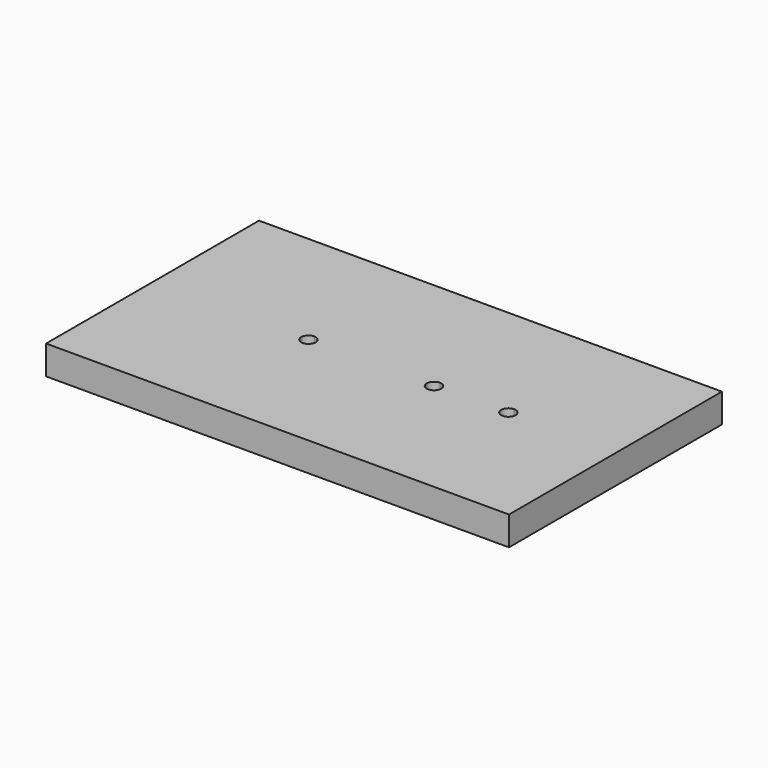
from build123d import *

# Parameters (mm, degrees)
F1_DEPTH = 6.35


with BuildPart() as f1:
    # F0 (on Top) → F1 (new body)
    with BuildSketch(Plane.XY):
        with BuildLine():
            ThreePointArc((22.624004341, 3.8826317272), (17.466782913, 1.685005569), (15.4797674162, -3.5569657209))
            Line((15.4797674162, -3.5569657209), (21.0631239876, -3.5569657209))
            ThreePointArc((21.0631239876, -3.5569657209), (21.4034033724, -2.2524364873), (22.624004341, -1.6799682728))
            Line((22.624004341, -1.6799682728), (22.624004341, 3.8826317272))
        make_face()
        with BuildLine():
            ThreePointArc((-40.0691179239, -3.5569657209), (-21.0191179239, -22.6069657209), (-1.9691179239, -3.5569657209))
            Line((-1.9691179239, -3.5569657209), (-19.4316179239, -3.5569657209))
            ThreePointArc((-19.4316179239, -3.5569657209), (-21.0191179239, -5.1444657209), (-22.6066179239, -3.5569657209))
            Line((-22.6066179239, -3.5569657209), (-40.0691179239, -3.5569657209))
        make_face()
        with BuildLine():
            ThreePointArc((15.0308820761, -3.5569657209), (6.5308820761, -12.0569657209), (-1.9691179239, -3.5569657209))
            ThreePointArc((-1.9691179239, -3.5569657209), (-21.0191179239, -22.6069657209), (-40.0691179239, -3.5569657209))
            Line((-40.0691179239, -3.5569657209), (-55.2431867614, -3.5569657209))
            Line((-55.2431867614, -3.5569657209), (-55.2431867614, -32.7669657209))
            Line((-55.2431867614, -32.7669657209), (46.3568132386, -32.7669657209))
            Line((46.3568132386, -32.7669657209), (46.3568132386, -3.5569657209))
            Line((46.3568132386, -3.5569657209), (29.7682412658, -3.5569657209))
            ThreePointArc((29.7682412658, -3.5569657209), (22.624004341, -10.4175682728), (15.4797674162, -3.5569657209))
            Line((15.4797674162, -3.5569657209), (15.0308820761, -3.5569657209))
        make_face()
        with BuildLine():
            ThreePointArc((22.624004341, 3.8826317272), (17.466782913, 1.685005569), (15.4797674162, -3.5569657209))
            Line((15.4797674162, -3.5569657209), (21.0631239876, -3.5569657209))
            ThreePointArc((21.0631239876, -3.5569657209), (21.4034033724, -2.2524364873), (22.624004341, -1.6799682728))
            Line((22.624004341, -1.6799682728), (22.624004341, 3.8826317272))
        make_face()
        with BuildLine():
            Line((8.1183820761, -3.5569657209), (15.0308820761, -3.5569657209))
            ThreePointArc((15.0308820761, -3.5569657209), (12.5412897162, 2.4534419192), (6.5308820761, 4.9430342791))
            Line((6.5308820761, 4.9430342791), (6.5308820761, -1.9694657209))
            ThreePointArc((6.5308820761, -1.9694657209), (7.6534140913, -2.4344337058), (8.1183820761, -3.5569657209))
        make_face()
        with BuildLine():
            ThreePointArc((29.774104341, -3.2674682728), (27.6798885371, 1.7884159234), (22.624004341, 3.8826317272))
            Line((22.624004341, 3.8826317272), (22.624004341, -1.6799682728))
            ThreePointArc((22.624004341, -1.6799682728), (23.7465363561, -2.1449362576), (24.211504341, -3.2674682728))
            ThreePointArc((24.211504341, -3.2674682728), (24.2048354216, -3.4128276361), (24.1848846943, -3.5569657209))
            Line((24.1848846943, -3.5569657209), (29.7682412658, -3.5569657209))
            ThreePointArc((29.7682412658, -3.5569657209), (29.7726384219, -3.4122466794), (29.774104341, -3.2674682728))
        make_face()
        with BuildLine():
            Line((-21.0191179239, -1.9694657209), (-21.0191179239, 15.4930342791))
            ThreePointArc((-21.0191179239, 15.4930342791), (-34.4895021055, 9.9134184607), (-40.0691179239, -3.5569657209))
            Line((-40.0691179239, -3.5569657209), (-22.6066179239, -3.5569657209))
            ThreePointArc((-22.6066179239, -3.5569657209), (-22.141649939, -2.4344337058), (-21.0191179239, -1.9694657209))
        make_face()
        with BuildLine():
            Line((4.9433820761, -3.5569657209), (-1.9691179239, -3.5569657209))
            ThreePointArc((-1.9691179239, -3.5569657209), (6.5308820761, -12.0569657209), (15.0308820761, -3.5569657209))
            Line((15.0308820761, -3.5569657209), (8.1183820761, -3.5569657209))
            ThreePointArc((8.1183820761, -3.5569657209), (6.5308820761, -5.1444657209), (4.9433820761, -3.5569657209))
        make_face()
        with BuildLine():
            ThreePointArc((-40.0691179239, -3.5569657209), (-34.4895021055, 9.9134184607), (-21.0191179239, 15.4930342791))
            Line((-21.0191179239, 15.4930342791), (-21.0191179239, 25.6530342791))
            Line((-21.0191179239, 25.6530342791), (-55.2431867614, 25.6530342791))
            Line((-55.2431867614, 25.6530342791), (-55.2431867614, -3.5569657209))
            Line((-55.2431867614, -3.5569657209), (-40.0691179239, -3.5569657209))
        make_face()
        with BuildLine():
            Line((22.624004341, 25.6530342791), (22.624004341, 3.8826317272))
            ThreePointArc((22.624004341, 3.8826317272), (27.6798885371, 1.7884159234), (29.774104341, -3.2674682728))
            ThreePointArc((29.774104341, -3.2674682728), (29.7726384219, -3.4122466794), (29.7682412658, -3.5569657209))
            Line((29.7682412658, -3.5569657209), (46.3568132386, -3.5569657209))
            Line((46.3568132386, -3.5569657209), (46.3568132386, 25.6530342791))
            Line((46.3568132386, 25.6530342791), (22.624004341, 25.6530342791))
        make_face()
        with BuildLine():
            ThreePointArc((-21.0191179239, 15.4930342791), (-7.5487337423, 9.9134184607), (-1.9691179239, -3.5569657209))
            ThreePointArc((-1.9691179239, -3.5569657209), (0.520474436, 2.4534419192), (6.5308820761, 4.9430342791))
            Line((6.5308820761, 4.9430342791), (6.5308820761, 25.6530342791))
            Line((6.5308820761, 25.6530342791), (-21.0191179239, 25.6530342791))
            Line((-21.0191179239, 25.6530342791), (-21.0191179239, 15.4930342791))
        make_face()
        with BuildLine():
            Line((-19.4316179239, -3.5569657209), (-1.9691179239, -3.5569657209))
            ThreePointArc((-1.9691179239, -3.5569657209), (-7.5487337423, 9.9134184607), (-21.0191179239, 15.4930342791))
            Line((-21.0191179239, 15.4930342791), (-21.0191179239, -1.9694657209))
            ThreePointArc((-21.0191179239, -1.9694657209), (-19.8965859087, -2.4344337058), (-19.4316179239, -3.5569657209))
        make_face()
        with BuildLine():
            ThreePointArc((6.5308820761, 4.9430342791), (12.5412897162, 2.4534419192), (15.0308820761, -3.5569657209))
            Line((15.0308820761, -3.5569657209), (15.4797674162, -3.5569657209))
            ThreePointArc((15.4797674162, -3.5569657209), (17.466782913, 1.685005569), (22.624004341, 3.8826317272))
            Line((22.624004341, 3.8826317272), (22.624004341, 25.6530342791))
            Line((22.624004341, 25.6530342791), (6.5308820761, 25.6530342791))
            Line((6.5308820761, 25.6530342791), (6.5308820761, 4.9430342791))
        make_face()
        with BuildLine():
            ThreePointArc((6.5308820761, 4.9430342791), (0.520474436, 2.4534419192), (-1.9691179239, -3.5569657209))
            Line((-1.9691179239, -3.5569657209), (4.9433820761, -3.5569657209))
            ThreePointArc((4.9433820761, -3.5569657209), (5.408350061, -2.4344337058), (6.5308820761, -1.9694657209))
            Line((6.5308820761, -1.9694657209), (6.5308820761, 4.9430342791))
        make_face()
        with BuildLine():
            Line((21.0631239876, -3.5569657209), (15.4797674162, -3.5569657209))
            ThreePointArc((15.4797674162, -3.5569657209), (22.624004341, -10.4175682728), (29.7682412658, -3.5569657209))
            Line((29.7682412658, -3.5569657209), (24.1848846943, -3.5569657209))
            ThreePointArc((24.1848846943, -3.5569657209), (22.624004341, -4.8549682728), (21.0631239876, -3.5569657209))
        make_face()
    extrude(amount=F1_DEPTH)


solid = f1.part
